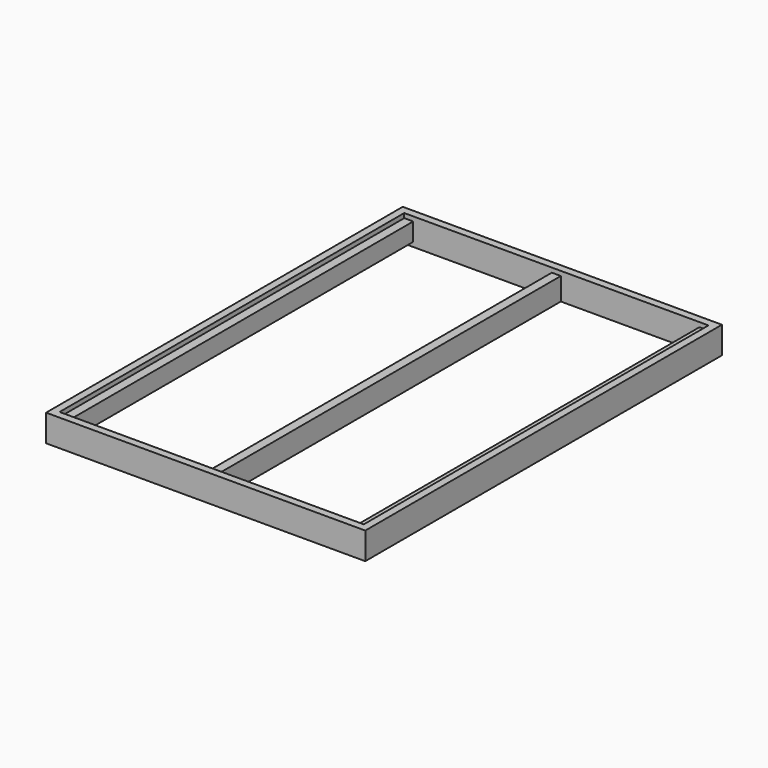
from build123d import *

# Parameters (mm, degrees)
F0_W     = 1352.55
F0_H     = 1889.125
F0_W_2   = 1289.05
F0_H_2   = 1825.625
F1_DEPTH = 114.3
F2_W     = 1825.625
F2_H     = 76.2
F3_DEPTH = 38.1
F4_W     = 1825.625
F4_H     = 76.2
F5_DEPTH = 38.1
F6_W     = 38.1
F6_H     = 95.25
F7_DEPTH = 1825.625


with BuildPart() as f1:
    # F0 (on Top) → F1 (new body)
    with BuildSketch(Plane.XY):
        Rectangle(F0_W, F0_H)
        Rectangle(F0_W_2, F0_H_2, mode=Mode.SUBTRACT)
    extrude(amount=F1_DEPTH)

    # F2 (on face) → F3 (join)
    with BuildSketch(Plane(origin=(644.525, 0, 0), x_dir=(0, -1, 0), z_dir=(-1, 0, 0))):
        with Locations((0, 57.15)):
            Rectangle(F2_W, F2_H)
    extrude(amount=F3_DEPTH)

    # F4 (on face) → F5 (join)
    with BuildSketch(Plane.YZ.offset(-644.525)):
        with Locations((0, 57.15)):
            Rectangle(F4_W, F4_H)
    extrude(amount=F5_DEPTH)

    # F6 (on face) → F7 (join, through all)
    with BuildSketch(Plane.XZ.offset(-912.8125)):
        with Locations((0, 47.625)):
            Rectangle(F6_W, F6_H)
    extrude(amount=F7_DEPTH)


solid = f1.part
